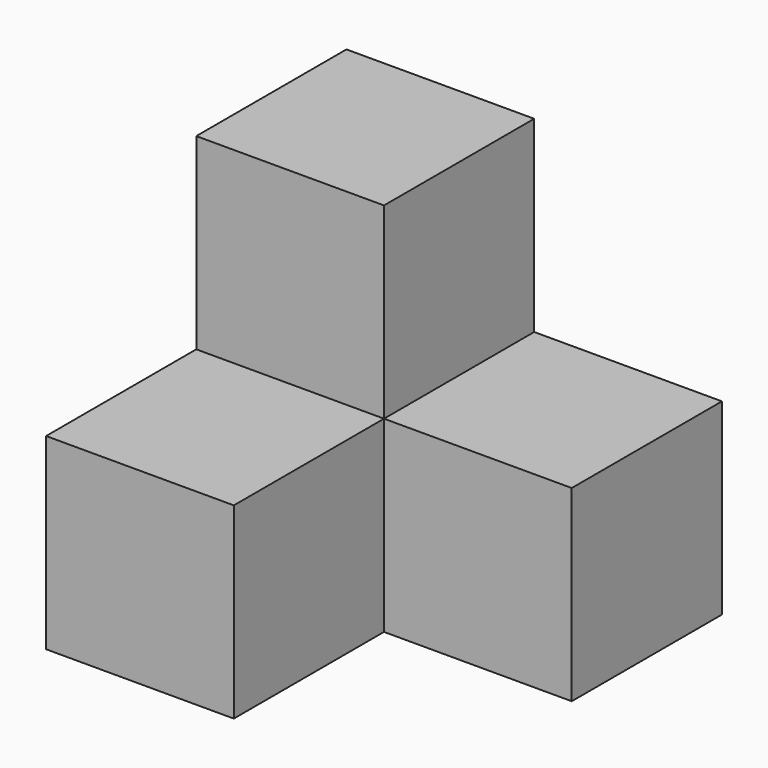
from build123d import *

# Parameters (mm, degrees)
F0_W     = 10
F0_H     = 10
F1_DEPTH = 20
F2_W     = 10
F2_H     = 10
F3_DEPTH = 10
F4_W     = 10
F4_H     = 10
F5_DEPTH = 10


with BuildPart() as f1:
    # F0 (on Top) → F1 (new body)
    with BuildSketch(Plane.XY):
        with Locations((5, 5)):
            Rectangle(F0_W, F0_H)
    extrude(amount=F1_DEPTH)

    # F2 (on face) → F3 (join)
    with BuildSketch(Plane.XZ):
        with Locations((5, 5)):
            Rectangle(F2_W, F2_H)
    extrude(amount=F3_DEPTH)

    # F4 (on face) → F5 (join)
    with BuildSketch(Plane.YZ.offset(10)):
        with Locations((5, 5)):
            Rectangle(F4_W, F4_H)
    extrude(amount=F5_DEPTH)


solid = f1.part
